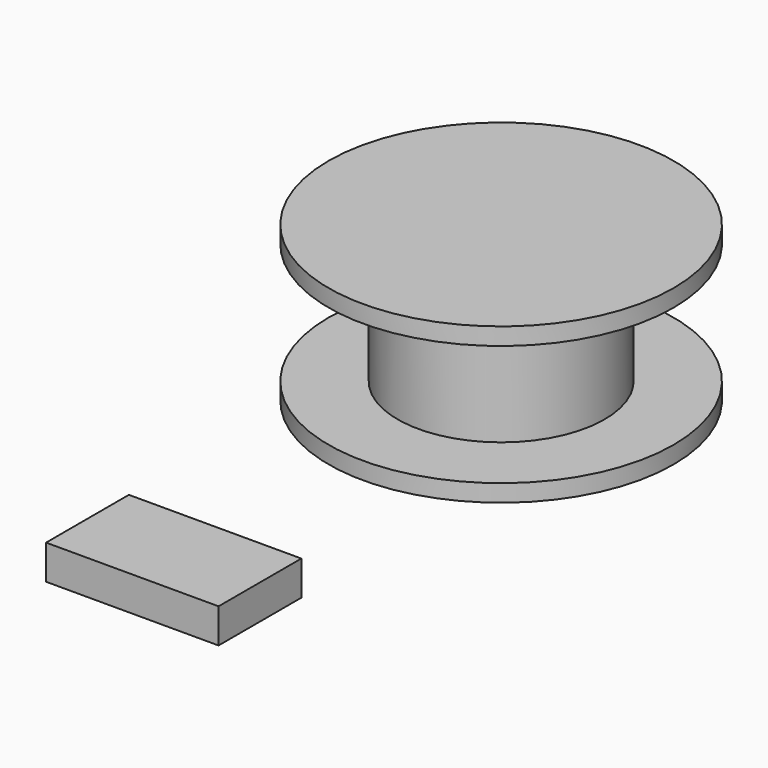
from build123d import *

# Parameters (mm, degrees)
F0_W      = 10
F0_H      = 6
F0_R      = 10
F1_DEPTH  = 2
F1_FACE_R = 10
F2_DEPTH  = 7
F3_W      = 4
F3_H      = 7


with BuildPart() as f1:
    # F0 (on Top) → F1 (new body)
    with BuildSketch(Plane.XY):
        Rectangle(F0_W, F0_H)
        with Locations((0, 23.728996)):
            Circle(F0_R)
        Rectangle(F0_W, F0_H)
    extrude(amount=F1_DEPTH)

    # F1_face (on face) → F2 (join)
    with BuildSketch(Plane(origin=(0, 23.728996, 2), x_dir=(1, 0, 0), z_dir=(0, 0, 1))):
        Circle(F1_FACE_R)
    extrude(amount=F2_DEPTH)

    # F3 (on Right) → F4 (revolve, cut)
    with BuildSketch(Plane.YZ):
        with Locations((31.728996, 4.5)):
            Rectangle(F3_W, F3_H)
    revolve(axis=Axis((0, 23.728996, 4.5), (0, 0, -1)), mode=Mode.SUBTRACT)


solid = f1.part
